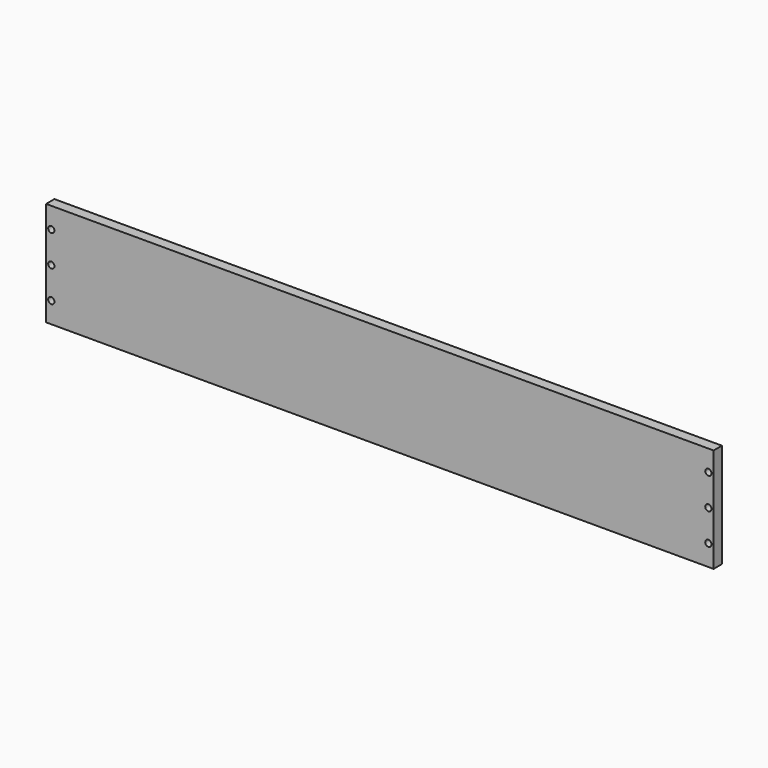
from build123d import *

# Parameters (mm, degrees)
F0_W     = 640
F0_H     = 100
F0_R     = 3
F1_DEPTH = 10


with BuildPart() as f1:
    # F0 (on Front) → F1 (new body)
    with BuildSketch(Plane.XZ):
        Rectangle(F0_W, F0_H)
        with Locations((-315, -30)):
            Circle(F0_R, mode=Mode.SUBTRACT)
        with Locations((315, -30)):
            Circle(F0_R, mode=Mode.SUBTRACT)
        with Locations((-315, 0)):
            Circle(F0_R, mode=Mode.SUBTRACT)
        with Locations((-315, 30)):
            Circle(F0_R, mode=Mode.SUBTRACT)
        with Locations((315, 0)):
            Circle(F0_R, mode=Mode.SUBTRACT)
        with Locations((315, 30)):
            Circle(F0_R, mode=Mode.SUBTRACT)
    extrude(amount=F1_DEPTH)


solid = f1.part
